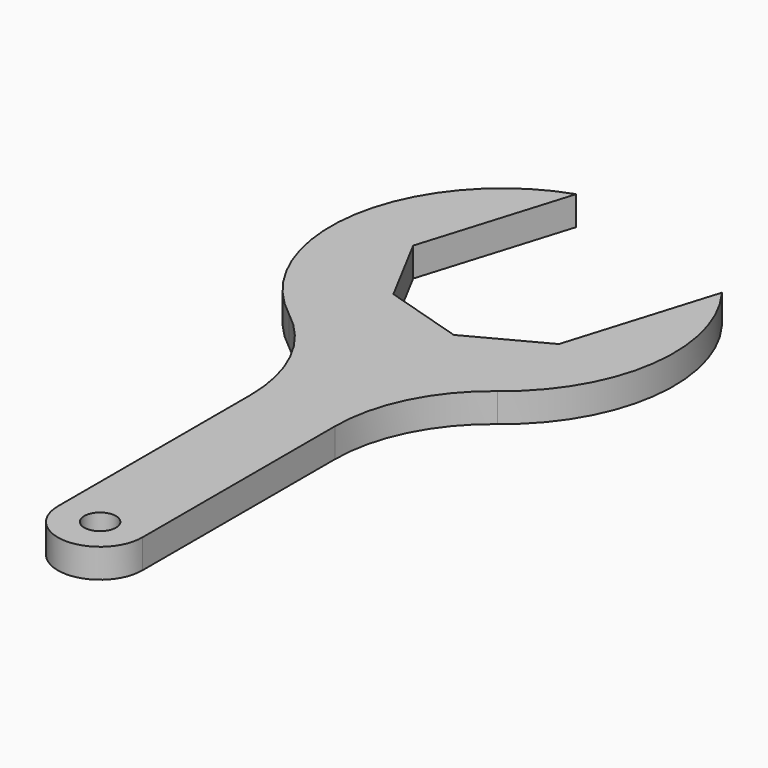
from build123d import *

# Parameters (mm, degrees)
F0_R     = 3
F1_DEPTH = 5.5


with BuildPart() as f1:
    # F0 (on Top) → F1 (new body)
    with BuildSketch(Plane.XY):
        with BuildLine():
            Line((-9.461859, -54.402588), (-9.461859, -100))
            ThreePointArc((-9.461859, -100), (-1.461859, -108), (6.538141, -100))
            Line((6.538141, -100), (6.538141, -54.402588))
            ThreePointArc((6.538141, -54.402588), (9.638327, -41.121022), (18.298141, -30.584477))
            ThreePointArc((18.298141, -30.584477), (30.73943, -9.177777), (24.491548, 14.780446))
            Line((24.491548, 14.780446), (15.952328, -13.150085))
            Line((15.952328, -13.150085), (1.981485, -20.578513))
            Line((1.981485, -20.578513), (-13.150085, -15.952328))
            Line((-13.150085, -15.952328), (-20.578513, -1.981485))
            Line((-20.578513, -1.981485), (-12.039293, 25.949045))
            ThreePointArc((-12.039293, 25.949045), (-33.541444, 0.429064), (-21.221859, -30.584477))
            ThreePointArc((-21.221859, -30.584477), (-12.562044, -41.121022), (-9.461859, -54.402588))
        make_face()
        with Locations((-1.461859, -100)):
            Circle(F0_R, mode=Mode.SUBTRACT)
    extrude(amount=F1_DEPTH)


solid = f1.part
